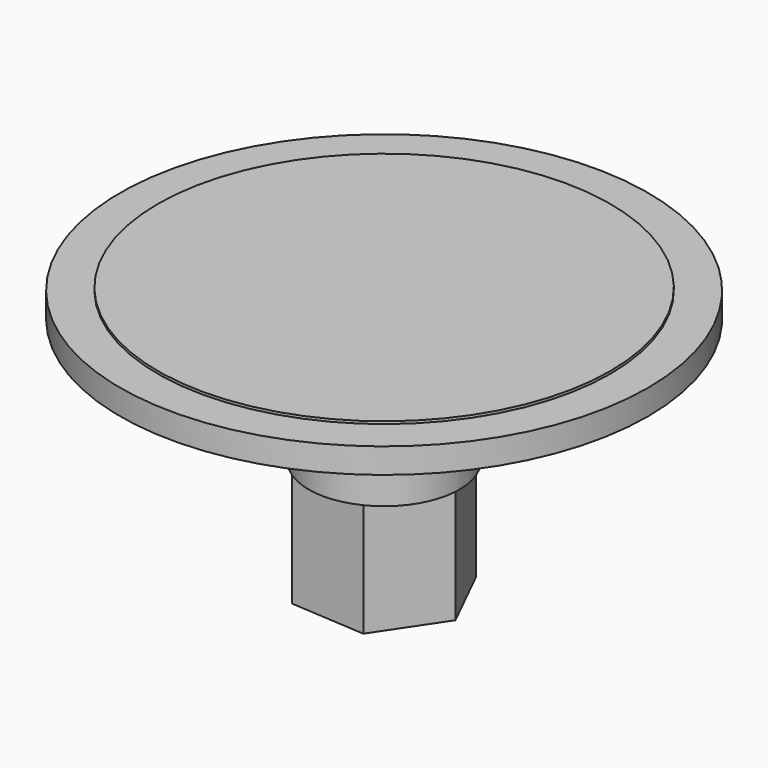
from build123d import *

# Parameters (mm, degrees)
F0_R     = 10.5
F0_R_2   = 9
F0_R_3   = 3
F1_DEPTH = 1
F2_DEPTH = 5
F3_DEPTH = 0.1
F4_DEPTH = 0.1
F5_R     = 9
F6_DEPTH = 0.1
F7_R     = 1.5
F8_DEPTH = 4.5


with BuildPart() as f1:
    # F0 (on Top) → F1 (new body)
    with BuildSketch(Plane.XY):
        Circle(F0_R)
        Circle(F0_R_2, mode=Mode.SUBTRACT)
        Circle(F0_R_2)
        Circle(F0_R_3, mode=Mode.SUBTRACT)
        Circle(F0_R_3)
    extrude(amount=F1_DEPTH)

    # F0 (on Top) → F2 (join)
    with BuildSketch(Plane.XY):
        Circle(F0_R_3)
    extrude(amount=-F2_DEPTH)

    # F0 (on Top) → F3 (join)
    with BuildSketch(Plane.XY):
        Circle(F0_R_2)
        Circle(F0_R_3, mode=Mode.SUBTRACT)
    extrude(amount=F3_DEPTH)

    # F0 (on Top) → F4 (join)
    with BuildSketch(Plane.XY):
        Circle(F0_R_2)
        Circle(F0_R_3, mode=Mode.SUBTRACT)
    extrude(amount=-F4_DEPTH)

    # F5 (on face) → F6 (join)
    with BuildSketch(Plane.XY.offset(1)):
        Circle(F5_R)
    extrude(amount=F6_DEPTH)

    # F7 (on face) → F8 (join)
    with BuildSketch(Plane(origin=(0, 0, -5), x_dir=(1, 0, 0), z_dir=(0, 0, -1))):
        Polygon((1.668331337, -2.4933251994), (2.9934486311, 0.1981547201), (1.325117294, 2.6914799195), (-1.668331337, 2.4933251994), (-2.9934486311, -0.1981547201), (-1.325117294, -2.6914799195), align=None)
        Circle(F7_R, mode=Mode.SUBTRACT)
    extrude(amount=F8_DEPTH)


solid = f1.part
